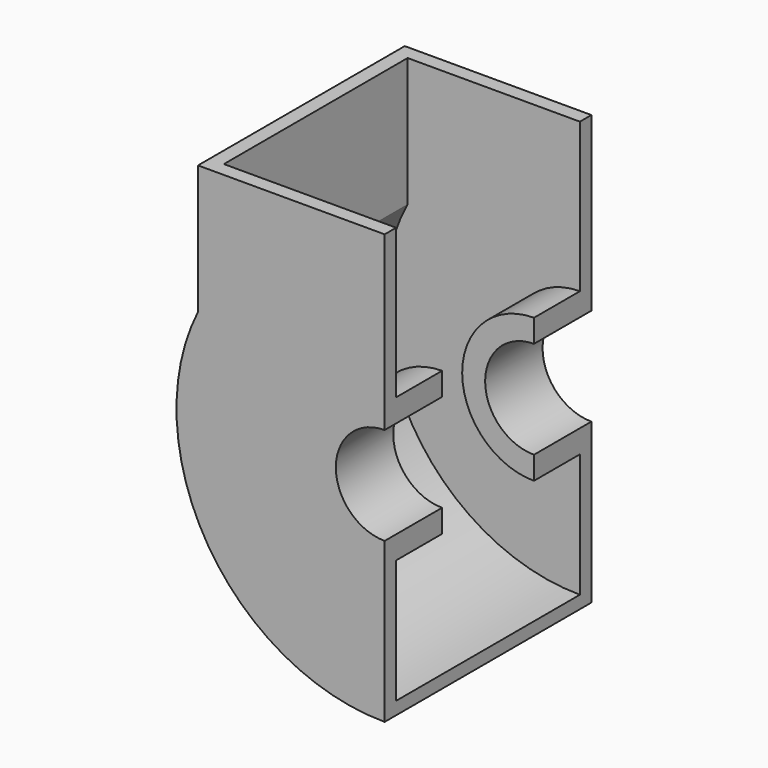
from build123d import *

# Parameters (mm, degrees)
F1_DEPTH      = 20
F1_DEPTH_BACK = 5
F3_DEPTH      = 5
F7_DEPTH      = 80


with BuildPart() as f1:
    # F0 (on Front) → F1 (new body, two sides)
    with BuildSketch(Plane.XZ) as f1_sk:
        with BuildLine():
            Line((0, 17), (0, 25))
            ThreePointArc((0, 25), (-25, 0), (0, -25))
            Line((0, -25), (0, -17))
            ThreePointArc((0, -17), (-17, 0), (0, 17))
        make_face()
    extrude(amount=F1_DEPTH)
    extrude(f1_sk.sketch, amount=-F1_DEPTH_BACK)

    # F2 (on Front) → F3 (join)
    with BuildSketch(Plane.XZ):
        with BuildLine():
            Line((-65, 77), (-65, 32.1130814467))
            ThreePointArc((-65, 32.1130814467), (-61.5810376857, -38.2625900529), (0, -72.5))
            Line((0, -72.5), (0, -25))
            ThreePointArc((0, -25), (-25, 0), (0, 25))
            Line((0, 25), (0, 77))
            Line((0, 77), (-65, 77))
        make_face()
    extrude(amount=-F3_DEPTH)


with BuildPart() as f5_1:
    # F5: instance of F1
    add(f1.part.mirror(Plane.XZ.offset(40)))


with BuildPart() as f1_1:
    add(f1.part)

    add(f5_1.part)  # F7 merges F5_1
    # F6 (on face) → F7 (join, through all)
    with BuildSketch(Plane.XZ):
        with BuildLine():
            Line((-65, 77), (-65, 32.1130814467))
            ThreePointArc((-65, 32.1130814467), (-61.5810376857, -38.2625900529), (0, -72.5))
            Line((0, -72.5), (0, -68.0532879441))
            ThreePointArc((0, -68.0532879441), (-58.3808649236, -34.9703390142), (-60, 32.1130814467))
            Line((-60, 32.1130814467), (-60, 77))
            Line((-60, 77), (-65, 77))
        make_face()
    extrude(amount=F7_DEPTH)


solid = f1_1.part
